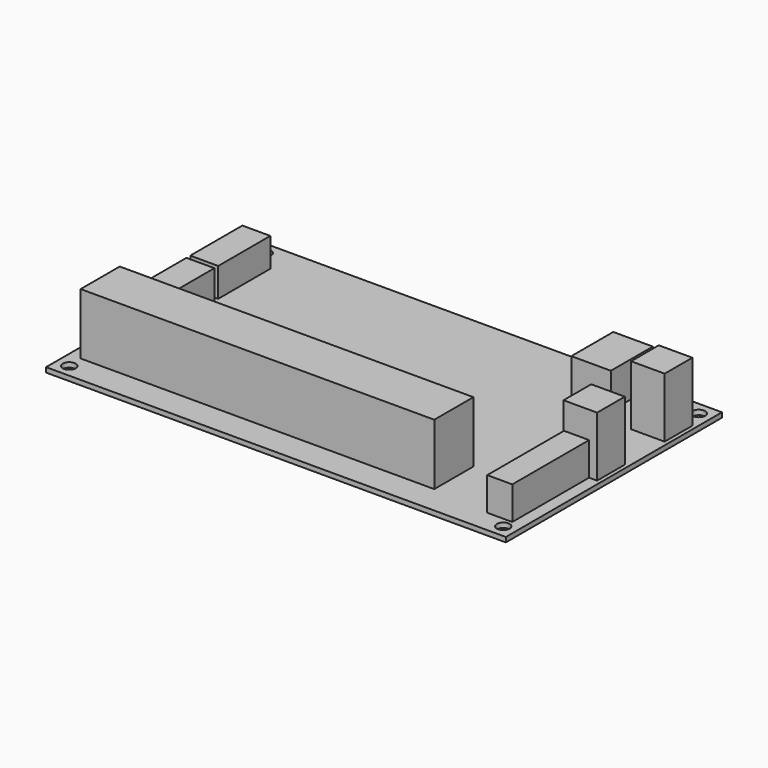
from build123d import *

# Parameters (mm, degrees)
F0_W      = 143
F0_H      = 84
F1_DEPTH  = 1.5
F2_R      = 2
F3_DEPTH  = 12.5
F4_W      = 10.44
F4_H      = 10.76
F5_DEPTH  = 18.62
F6_W      = 7.8
F6_H      = 30
F7_DEPTH  = 10.3
F8_W      = 8.7
F8_H      = 20.25
F9_DEPTH  = 9
F10_W     = 110
F10_H     = 15.2
F11_DEPTH = 19
F12_W     = 12.3
F12_H     = 16.3
F13_DEPTH = 11


with BuildPart() as f1:
    # F0 (on Top) → F1 (new body)
    with BuildSketch(Plane.XY):
        with Locations((71.5, 42)):
            Rectangle(F0_W, F0_H)
    extrude(amount=F1_DEPTH)

    # F2 (on face) → F3 (cut, symmetric)
    with BuildSketch(Plane.XY.offset(1.5)):
        with Locations((139, 4)):
            Circle(F2_R)
        with Locations((139, 80)):
            Circle(F2_R)
        with Locations((4, 80)):
            Circle(F2_R)
        with Locations((4, 4)):
            Circle(F2_R)
    extrude(amount=F3_DEPTH, both=True, mode=Mode.SUBTRACT)

    # F4 (on face) → F5 (join)
    with BuildSketch(Plane.XY.offset(1.5)):
        with Locations((136.58, 68.62)):
            Rectangle(F4_W, F4_H)
        with Locations((136.58, 42.36)):
            Rectangle(F4_W, F4_H)
    extrude(amount=F5_DEPTH)

    # F6 (on face) → F7 (join)
    with BuildSketch(Plane.XY.offset(1.5)):
        with Locations((135.4, 22.13)):
            Rectangle(F6_W, F6_H)
    extrude(amount=F7_DEPTH)

    # F8 (on face) → F9 (join)
    with BuildSketch(Plane.XY.offset(1.5)):
        with Locations((5.85, 64.305)):
            Rectangle(F8_W, F8_H)
        with Locations((5.85, 42.555)):
            Rectangle(F8_W, F8_H)
    extrude(amount=F9_DEPTH)

    # F10 (on face) → F11 (join)
    with BuildSketch(Plane.XY.offset(1.5)):
        with Locations((58.7, 16.4)):
            Rectangle(F10_W, F10_H)
    extrude(amount=F11_DEPTH)

    # F12 (on face) → F13 (join)
    with BuildSketch(Plane.XY.offset(1.5)):
        with Locations((115.35, 75.85)):
            Rectangle(F12_W, F12_H)
    extrude(amount=F13_DEPTH)


solid = f1.part
